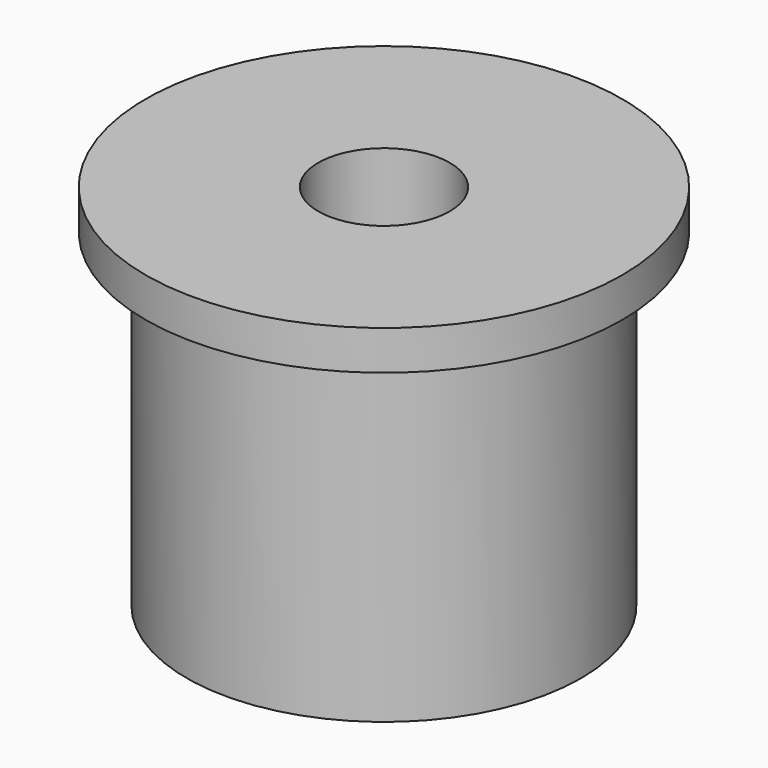
from build123d import *

# Parameters (mm, degrees)
F0_R     = 6
F1_DEPTH = 10
F2_R     = 7.25
F2_R_2   = 6
F3_DEPTH = 1.2
F4_R     = 2
F5_DEPTH = 25


with BuildPart() as f1:
    # F0 (on Top) → F1 (new body)
    with BuildSketch(Plane.XY):
        Circle(F0_R)
    extrude(amount=F1_DEPTH)

    # F2 (on face) → F3 (join)
    with BuildSketch(Plane.XY.offset(10)):
        Circle(F2_R)
        Circle(F2_R_2, mode=Mode.SUBTRACT)
        Circle(F2_R_2)
    extrude(amount=F3_DEPTH)

    # F4 (on face) → F5 (cut)
    with BuildSketch(Plane.XY.offset(11.2)):
        Circle(F4_R)
    extrude(amount=-F5_DEPTH, mode=Mode.SUBTRACT)


solid = f1.part
